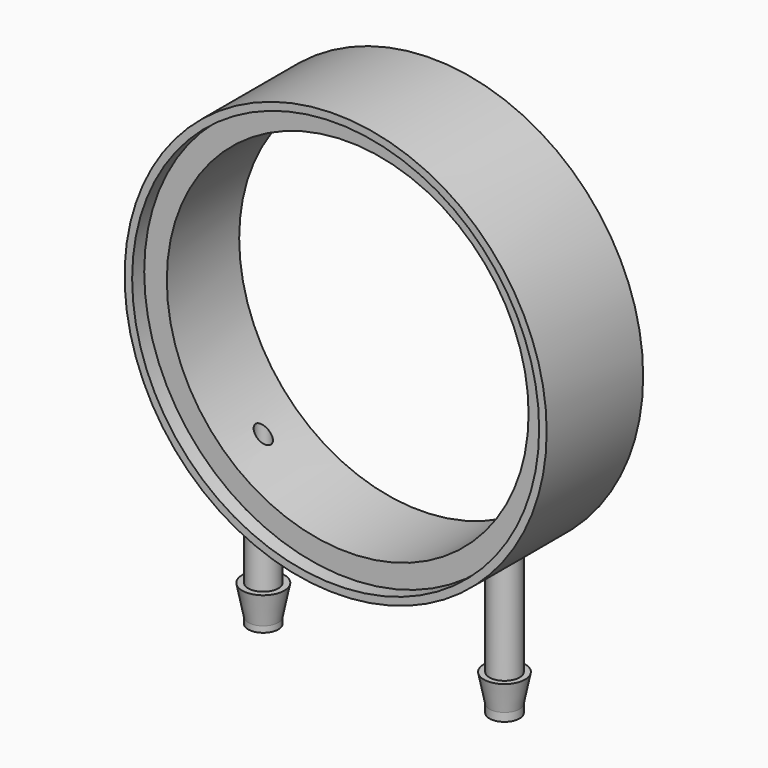
from build123d import *

# Parameters (mm, degrees)
F0_R      = 44.45
F1_DEPTH  = 12.7
F2_R      = 42.8625
F4_DEPTH  = 12.7
F3_R      = 42.8625
F5_DEPTH  = 9.525
F8_R      = 3.175
F9_DEPTH  = 63.5
F7_R      = 3.175
F10_DEPTH = 63.5
F15_R     = 1.5875
F16_DEPTH = 76.2
F17_R     = 1.5875
F18_DEPTH = 63.5
F6_R      = 38.1
F19_DEPTH = 12.7


with BuildPart() as f1:
    # F0 (on Front) → F1 (new body, symmetric)
    with BuildSketch(Plane.XZ):
        Circle(F0_R)
    extrude(amount=F1_DEPTH, both=True)

    # F2 (on Front) → F4 (cut, symmetric)
    with BuildSketch(Plane.XZ):
        Circle(F2_R)
    extrude(amount=F4_DEPTH, both=True, mode=Mode.SUBTRACT)

    # F3 (on Front) → F5 (join, symmetric)
    with BuildSketch(Plane.XZ):
        Circle(F3_R)
    extrude(amount=F5_DEPTH, both=True)

    # F8 (on Top) → F9 (join)
    with BuildSketch(Plane.XY):
        with Locations((25.4, 0)):
            Circle(F8_R)
    extrude(amount=-F9_DEPTH)

    # F7 (on Top) → F10 (join)
    with BuildSketch(Plane.XY):
        with Locations((-25.4, 0)):
            Circle(F7_R)
    extrude(amount=-F10_DEPTH)

    # F11 (on Front) → F12 (revolve)
    with BuildSketch(Plane.XZ):
        Polygon((28.479918, -55.88), (28.480154, -62.23), (29.749918, -55.88), align=None)
    revolve(axis=Axis((25.4, 0, -63.5), (0, 0, 1)))

    # F13 (on Front) → F14 (revolve)
    with BuildSketch(Plane.XZ):
        Polygon((-22.225006, -55.88), (-22.225006, -62.23), (-20.955006, -55.88), align=None)
    revolve(axis=Axis((-25.4, 0, -63.5), (0, 0, 1)))

    # F15 (on face) → F16 (cut)
    with BuildSketch(Plane(origin=(0, 0, -63.5), x_dir=(1, 0, 0), z_dir=(0, 0, -1))):
        with Locations((25.4, 0)):
            Circle(F15_R)
    extrude(amount=-F16_DEPTH, mode=Mode.SUBTRACT)

    # F17 (on face) → F18 (cut)
    with BuildSketch(Plane(origin=(0, 0, -63.5), x_dir=(1, 0, 0), z_dir=(0, 0, -1))):
        with Locations((-25.4, 0)):
            Circle(F17_R)
    extrude(amount=-F18_DEPTH, mode=Mode.SUBTRACT)

    # F6 (on Front) → F19 (cut, symmetric)
    with BuildSketch(Plane.XZ):
        Circle(F6_R)
    extrude(amount=F19_DEPTH, both=True, mode=Mode.SUBTRACT)


solid = f1.part
